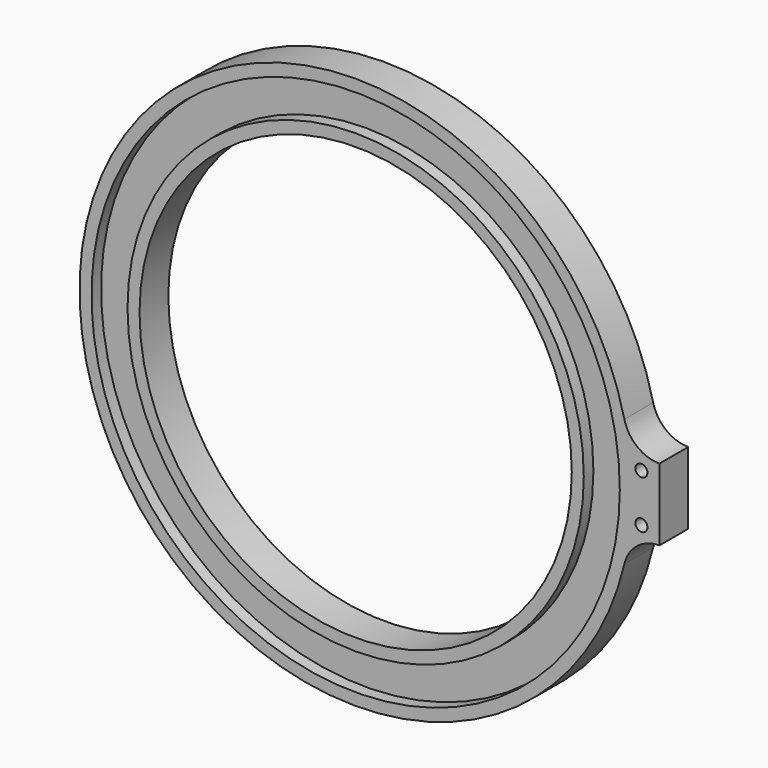
from build123d import *

# Parameters (mm, degrees)
F0_R     = 6.35
F0_R_2   = 228.6
F1_DEPTH = 19.05
F2_R     = 279.4
F2_R_2   = 241.3
F3_DEPTH = 12.7


with BuildPart() as f1:
    # F0 (on Front) → F1 (new body, symmetric)
    with BuildSketch(Plane.XZ):
        with BuildLine():
            ThreePointArc((-123.21259, 38.1), (-146.841207, 46.311901), (-160.284214, 67.407692))
            ThreePointArc((-160.284214, 67.407692), (-736.6, 0), (-160.284214, -67.407692))
            ThreePointArc((-160.284214, -67.407692), (-146.841207, -46.311901), (-123.21259, -38.1))
            Line((-123.21259, -38.1), (-123.21259, 38.1))
        make_face()
        with Locations((-142.26259, -25.4)):
            Circle(F0_R, mode=Mode.SUBTRACT)
        with Locations((-444.5, 0)):
            Circle(F0_R_2, mode=Mode.SUBTRACT)
        with Locations((-142.26259, 25.4)):
            Circle(F0_R, mode=Mode.SUBTRACT)
    extrude(amount=F1_DEPTH, both=True)

    # F2 (on face) → F3 (cut)
    with BuildSketch(Plane.XZ.offset(19.05)):
        with Locations((-444.5, 0)):
            Circle(F2_R)
        with Locations((-444.5, 0)):
            Circle(F2_R_2, mode=Mode.SUBTRACT)
    extrude(amount=-F3_DEPTH, mode=Mode.SUBTRACT)


solid = f1.part
